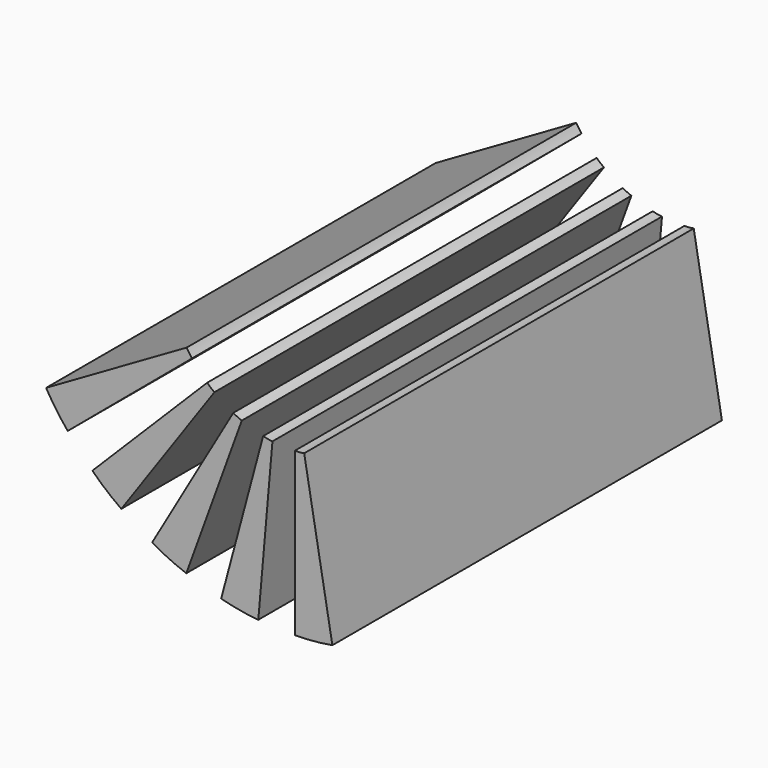
from build123d import *

# Parameters (mm, degrees)
BOX001027037_W               = 2
BOX001027037_H               = 20
BOX001027037_DEPTH           = 13
CYLINDER102_R                = 2
CYLINDER102_DEPTH            = 26
CYLINDER102_ROLL_ANGLE       = 90
CYLINDER103_R                = 8
CYLINDER103_DEPTH            = 18
CYLINDER103_ROLL_ANGLE       = 90
BOX001027036_W               = 13
BOX001027036_H               = 20
BOX001027036_DEPTH           = 2
BOX001027036_PLACEMENT_ANGLE = 80
COMMON049_PITCH_ANGLE        = 10
COMMON050_PLACEMENT_ANGLE    = 25
COMMON051_PITCH_ANGLE        = -20
COMMON052_PITCH_ANGLE        = -35
COMMON048_PITCH_ANGLE        = -5
FUSION100_PLACEMENT_ANGLE    = 205


with BuildPart() as cube057:
    # Box001027037 → Box001027037 (new body)
    with BuildSketch(Plane(origin=(0, -10, 0), x_dir=(1, 0, 0), z_dir=(0, 0, 1))):
        with Locations((1, 10)):
            Rectangle(BOX001027037_W, BOX001027037_H)
    extrude(amount=BOX001027037_DEPTH)


with BuildPart() as cylinder165:
    # Cylinder102 → Cylinder102 (new body)
    with BuildSketch(Plane.XY):
        Circle(CYLINDER102_R)
    extrude(amount=CYLINDER102_DEPTH)


with BuildPart() as cylinder165_1:
    # Cylinder102 roll: moved
    add(cylinder165.part.rotate(Axis((0, 0, 0), (1, 0, 0)), CYLINDER102_ROLL_ANGLE))


with BuildPart() as cylinder165_2:
    # Cylinder102 placement: moved
    add(cylinder165_1.part.moved(Location((0, 12, 0))))


with BuildPart() as cut053:
    # Cylinder103 → Cylinder103 (new body)
    with BuildSketch(Plane.XY):
        Circle(CYLINDER103_R)
    extrude(amount=CYLINDER103_DEPTH)


with BuildPart() as cut053_1:
    # Cylinder103 roll: moved
    add(cut053.part.rotate(Axis((0, 0, 0), (1, 0, 0)), CYLINDER103_ROLL_ANGLE))


with BuildPart() as cut053_2:
    # Cylinder103 placement: moved
    add(cut053_1.part.moved(Location((0, 9, 0))))

    # Cut053: cut Cylinder165
    add(cylinder165_2.part, mode=Mode.SUBTRACT)


with BuildPart() as cube056:
    # Box001027036 → Box001027036 (new body)
    with BuildSketch(Plane.XY):
        with Locations((6.5, 10)):
            Rectangle(BOX001027036_W, BOX001027036_H)
    extrude(amount=BOX001027036_DEPTH)


with BuildPart() as cube056_1:
    # Box001027036 placement: moved
    add(cube056.part.moved(Location((0, -10, 0))).rotate(Axis((0, -10, 0), (0, -1, 0)), BOX001027036_PLACEMENT_ANGLE))


with BuildPart() as common049:
    # Common049 base: copy of Cube056
    add(cube056_1.part)

    # Common049: intersect Cube057, Cut053
    add(cube057.part, mode=Mode.INTERSECT)
    add(cut053_2.part, mode=Mode.INTERSECT)


with BuildPart() as common049_1:
    # Common049 pitch: moved
    add(common049.part.rotate(Axis((0, 0, 0), (0, 1, 0)), COMMON049_PITCH_ANGLE))


with BuildPart() as common049_2:
    # Common049 placement: moved
    add(common049_1.part.moved(Location((0.647048, 0, 2.414815))))


with BuildPart() as common050:
    # Common050 base: copy of Cube056
    add(cube056_1.part)

    # Common050: intersect Cube057, Cut053
    add(cube057.part, mode=Mode.INTERSECT)
    add(cut053_2.part, mode=Mode.INTERSECT)


with BuildPart() as common050_1:
    # Common050 placement: moved
    add(common050.part.moved(Location((1.25, 0, 2.165064))).rotate(Axis((1.25, 0, 2.165064), (0, 1, 0)), COMMON050_PLACEMENT_ANGLE))


with BuildPart() as common051:
    # Common051 base: copy of Cube056
    add(cube056_1.part)

    # Common051: intersect Cube057, Cut053
    add(cube057.part, mode=Mode.INTERSECT)
    add(cut053_2.part, mode=Mode.INTERSECT)


with BuildPart() as common051_1:
    # Common051 pitch: moved
    add(common051.part.rotate(Axis((0, 0, 0), (0, 1, 0)), COMMON051_PITCH_ANGLE))


with BuildPart() as common051_2:
    # Common051 placement: moved
    add(common051_1.part.moved(Location((-0.647048, 0, 2.414815))))


with BuildPart() as common052:
    # Common052 base: copy of Cube056
    add(cube056_1.part)

    # Common052: intersect Cube057, Cut053
    add(cube057.part, mode=Mode.INTERSECT)
    add(cut053_2.part, mode=Mode.INTERSECT)


with BuildPart() as common052_1:
    # Common052 pitch: moved
    add(common052.part.rotate(Axis((0, 0, 0), (0, 1, 0)), COMMON052_PITCH_ANGLE))


with BuildPart() as common052_2:
    # Common052 placement: moved
    add(common052_1.part.moved(Location((-1.25, 0, 2.165064))))


with BuildPart() as strength_slots011:
    # Common048 base: copy of Cube056
    add(cube056_1.part)

    # Common048: intersect Cube057, Cut053
    add(cube057.part, mode=Mode.INTERSECT)
    add(cut053_2.part, mode=Mode.INTERSECT)


with BuildPart() as strength_slots011_1:
    # Common048 pitch: moved
    add(strength_slots011.part.rotate(Axis((0, 0, 0), (0, 1, 0)), COMMON048_PITCH_ANGLE))


with BuildPart() as strength_slots011_2:
    # Common048 placement: moved
    add(strength_slots011_1.part.moved(Location((0, 0, 2.5))))

    # Fusion100: union Common049, Common050, Common051, Common052
    add(common049_2.part)
    add(common050_1.part)
    add(common051_2.part)
    add(common052_2.part)


with BuildPart() as strength_slots011_3:
    # Fusion100 placement: moved
    add(strength_slots011_2.part.moved(Location((65, 0, -30))).rotate(Axis((65, 0, -30), (0, 1, 0)), FUSION100_PLACEMENT_ANGLE))


solid = strength_slots011_3.part
